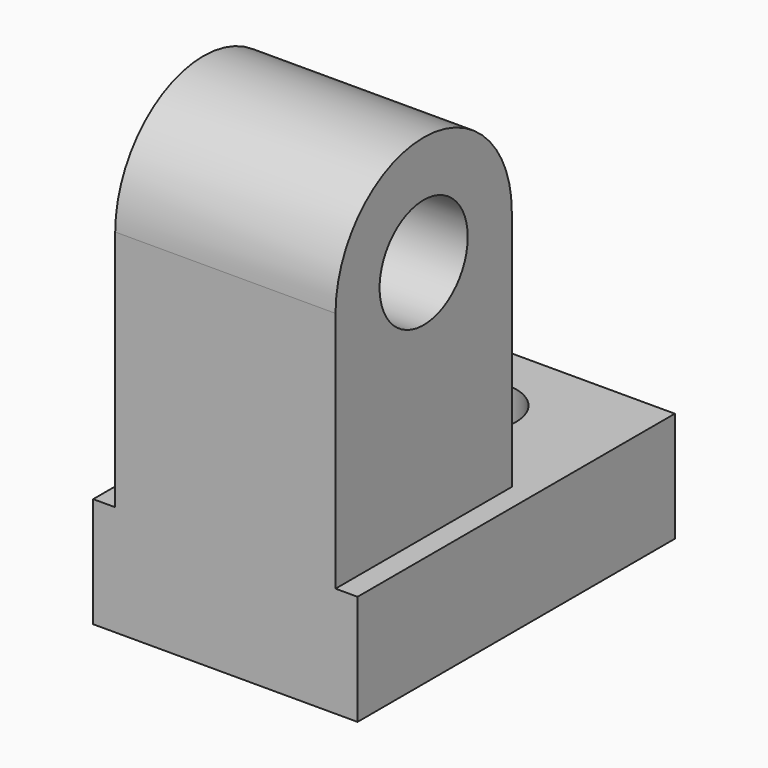
from build123d import *

# Parameters (mm, degrees)
SKETCH001_R  = 2.5
PAD001_DEPTH = 5
SKETCH_W     = 12
SKETCH_H     = 18
SKETCH_R     = 2
PAD_DEPTH    = 5


with BuildPart() as pad001:
    # Sketch001 → Pad001 (new body, symmetric)
    with BuildSketch(Plane.YZ):
        with BuildLine():
            Line((0, 0), (10, 0))
            Line((10, 0), (10, 16))
            ThreePointArc((10, 16), (5, 21), (0, 16))
            Line((0, 16), (0, 0))
        make_face()
        with Locations((5, 16)):
            Circle(SKETCH001_R, mode=Mode.SUBTRACT)
    extrude(amount=PAD001_DEPTH, both=True)


with BuildPart() as fusion:
    # Sketch → Pad (new body)
    with BuildSketch(Plane.XY):
        with Locations((0, 9)):
            Rectangle(SKETCH_W, SKETCH_H)
        with Locations((0, 14)):
            Circle(SKETCH_R, mode=Mode.SUBTRACT)
    extrude(amount=PAD_DEPTH)

    # Fusion: union Pad001
    add(pad001.part)


solid = fusion.part
